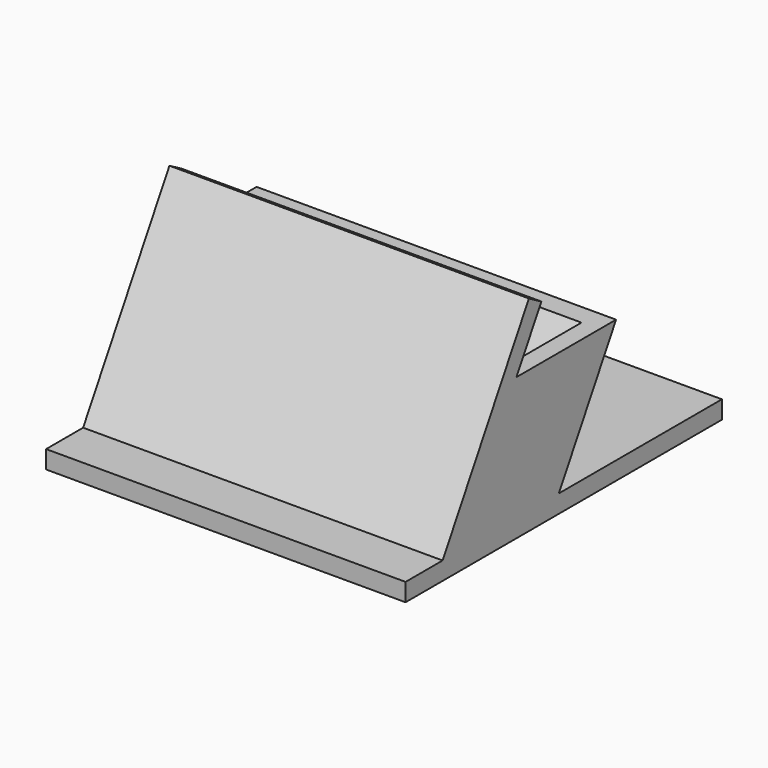
from build123d import *

# Parameters (mm, degrees)
F1_DEPTH = 100
F3_DEPTH = 5
F5_DEPTH = 5
F6_DEPTH = 10


with BuildPart() as f1:
    # F0 (on Right) → F1 (new body)
    with BuildSketch(Plane.YZ):
        Polygon((0, 5), (0, 0), (100, 0), (100, 5), (43.3012701892, 5), (63.1976404784, 39.4615242271), (57.4241377865, 39.4615242271), (37.5277674973, 5), (8.6602540378, 5), (37.2168783649, 54.4615242271), (32.8867513459, 56.9615242271), (2.8867513459, 5), align=None)
    extrude(amount=F1_DEPTH)

    # F2 (on face) → F3 (join)
    with BuildSketch(Plane.YZ.offset(100)):
        Polygon((37.5277674973, 5), (57.4241377865, 39.4615242271), (28.556624327, 39.4615242271), (8.6602540378, 5), align=None)
    extrude(amount=-F3_DEPTH)

    # F4 (on face) → F5 (join)
    with BuildSketch(Plane(origin=(0, 0, 0), x_dir=(0, -1, 0), z_dir=(-1, 0, 0))):
        Polygon((-28.556624327, 39.4615242271), (-57.4241377865, 39.4615242271), (-37.5277674973, 5), (-8.6602540378, 5), align=None)
    extrude(amount=-F5_DEPTH)

    # F6 (add): a face of the model
    f6_faces = [f1.faces().sort_by_distance(p)[0] for p in [
        (50, 0, 2.5),
    ]]
    extrude(f6_faces, amount=F6_DEPTH)


solid = f1.part
